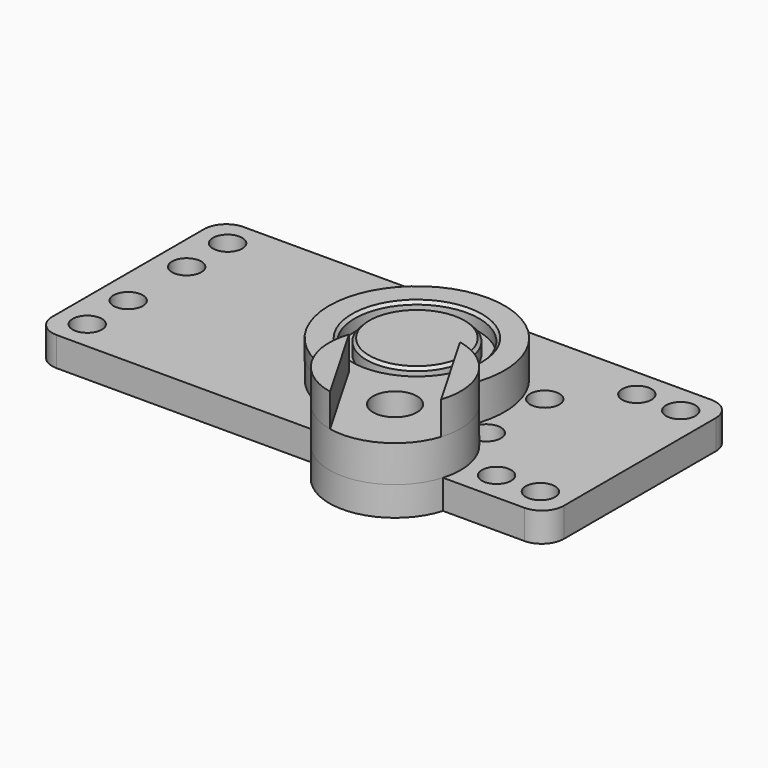
from build123d import *

# Parameters (mm, degrees)
SKETCH_R        = 12
SKETCH_R_2      = 8.5
PAD_DEPTH       = 2
SKETCH001_R     = 3
SKETCH001_R_2   = 8.5
PAD001_DEPTH    = 5
SKETCH002_R     = 8.5
PAD002_DEPTH    = 3
SKETCH003_R     = 6.9
PAD003_DEPTH    = 2
PAD004_DEPTH    = 4.5
SKETCH005_R     = 2
PAD005_DEPTH    = 4
FILLET_R        = 3
CHAMFER_SIZE    = 0.4
CHAMFER001_SIZE = 0.4
SKETCH006_R     = 3
POCKET_DEPTH    = 4.001


with BuildPart() as part:
    # Sketch → Pad (new body)
    with BuildSketch(Plane.XY):
        Circle(SKETCH_R)
        Circle(SKETCH_R_2, mode=Mode.SUBTRACT)
    extrude(amount=PAD_DEPTH)

    # Sketch001 (on Face4 of Pad) → Pad001 (join)
    with BuildSketch(Plane.XY.offset(2)):
        with BuildLine():
            ThreePointArc((-1.128054, -11.946861), (12.25, -21.217622), (10.910313, -4.996507))
            ThreePointArc((10.910313, -4.996507), (-6, 10.392305), (-1.128054, -11.946861))
        make_face()
        with Locations((7.75, -13.423394)):
            Circle(SKETCH001_R, mode=Mode.SUBTRACT)
        Circle(SKETCH001_R_2, mode=Mode.SUBTRACT)
    extrude(amount=-PAD001_DEPTH)

    # Sketch002 (on Face6 of Pad001) → Pad002 (join)
    with BuildSketch(Plane(origin=(0, 0, -3), x_dir=(1, 0, 0), z_dir=(0, 0, -1))):
        Circle(SKETCH002_R)
    extrude(amount=-PAD002_DEPTH)

    # Sketch003 (on Face11 of Pad002) → Pad003 (join)
    with BuildSketch(Plane.XY):
        Circle(SKETCH003_R)
    extrude(amount=PAD003_DEPTH)

    # Sketch004 (on Face7 of Pad003) → Pad004 (join)
    with BuildSketch(Plane.XY.offset(2)):
        with BuildLine():
            Line((-0.800254, -10.613919), (5.90795, -22.232869))
            ThreePointArc((-0.800254, -10.613919), (-0.044229, -17.923394), (5.90795, -22.232869))
        make_face()
        with BuildLine():
            Line((16.300254, -16.232869), (9.59205, -4.613919))
            ThreePointArc((16.300254, -16.232869), (15.544229, -8.923394), (9.59205, -4.613919))
        make_face()
    extrude(amount=PAD004_DEPTH)

    # Sketch005 (on Face19 of Pad004) → Pad005 (join)
    with BuildSketch(Plane.XY.offset(-3)):
        with BuildLine():
            Line((-39.5, 16), (17.5, 16))
            Line((17.5, 16), (24.5, 16))
            Line((24.5, 16), (30.5, 16))
            Line((30.5, 16), (30.5, -16))
            Line((24.5, -16), (30.5, -16))
            Line((17.5, -16), (24.5, -16))
            Line((17.5, -16), (16.373288, -16))
            ThreePointArc((-0.873288, -16), (7.75, -22.423394), (16.373288, -16))
            Line((-0.873288, -16), (-39.5, -16))
            Line((-39.5, -16), (-39.5, 16))
        make_face()
        with Locations((-35.5, 5)):
            Circle(SKETCH005_R, mode=Mode.SUBTRACT)
        with Locations((-35.5, -5)):
            Circle(SKETCH005_R, mode=Mode.SUBTRACT)
        with Locations((13.5, 5)):
            Circle(SKETCH005_R, mode=Mode.SUBTRACT)
        with Locations((13.5, -5)):
            Circle(SKETCH005_R, mode=Mode.SUBTRACT)
        with Locations((-35.5, 12)):
            Circle(SKETCH005_R, mode=Mode.SUBTRACT)
        with Locations((-35.5, -12)):
            Circle(SKETCH005_R, mode=Mode.SUBTRACT)
        with Locations((20.5, 12)):
            Circle(SKETCH005_R, mode=Mode.SUBTRACT)
        with Locations((20.5, -12)):
            Circle(SKETCH005_R, mode=Mode.SUBTRACT)
        with Locations((26.5, -12)):
            Circle(SKETCH005_R, mode=Mode.SUBTRACT)
        with Locations((26.5, 12)):
            Circle(SKETCH005_R, mode=Mode.SUBTRACT)
    extrude(amount=-PAD005_DEPTH)

    # Fillet
    fillet_edges = [part.edges().sort_by_distance(p)[0] for p in [
        (-39.5, -16, -5),
        (30.5, -16, -5),
        (30.5, 16, -5),
        (-39.5, 16, -5),
    ]]
    fillet(fillet_edges, radius=FILLET_R)

    # Chamfer
    chamfer_edges = [part.edges().sort_by_distance(p)[0] for p in [
        (-6.9, 0, 2),
    ]]
    chamfer(chamfer_edges, length=CHAMFER_SIZE)

    # Chamfer001
    chamfer001_edges = [part.edges().sort_by_distance(p)[0] for p in [
        (-8.5, 0, 2),
    ]]
    chamfer(chamfer001_edges, length=CHAMFER001_SIZE)

    # Sketch006 (on Face23 of Chamfer001) → Pocket (cut, through all)
    with BuildSketch(Plane.XY.offset(-3)):
        with Locations((7.75, -13.423394)):
            Circle(SKETCH006_R)
    extrude(amount=-POCKET_DEPTH, mode=Mode.SUBTRACT)


solid = part.part
